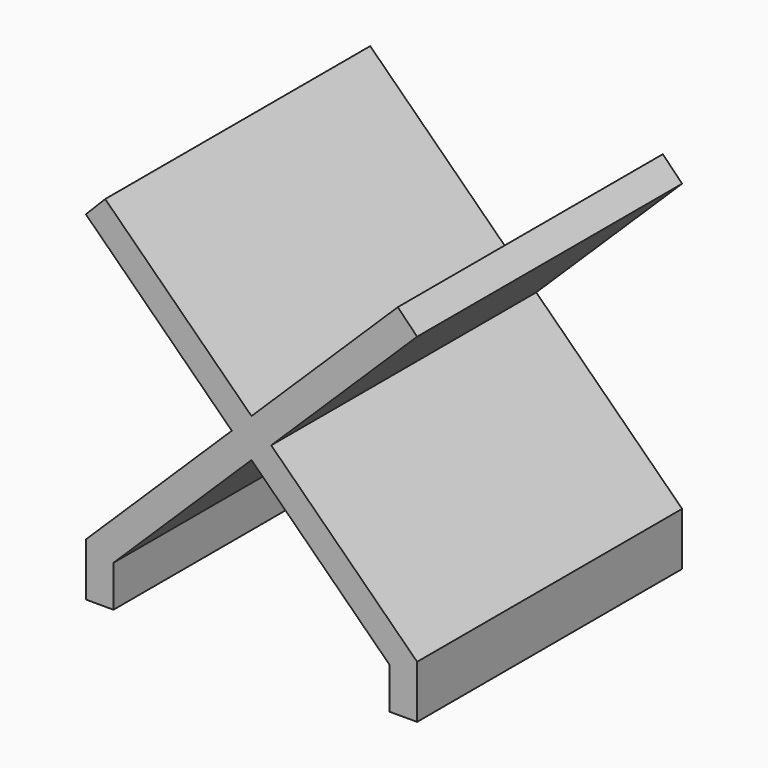
from build123d import *

# Parameters (mm, degrees)
F1_DEPTH      = 25.4
F1_DEPTH_BACK = 50.8


with BuildPart() as f1:
    # F0 (on Front) → F1 (new body, two sides)
    with BuildSketch(Plane.XZ) as f1_sk:
        Polygon((-38.1, -21.878573), (-38.1, -34.056139), (-31.75, -34.056139), (-31.75, -24.545052), (0, 6.593748), (31.75, -24.545052), (31.75, -34.056139), (38.1, -34.056139), (38.1, -21.878573), (4.534409, 11.040868), (38.1, 43.960308), (33.65372, 48.493861), (0, 15.487987), (-33.65372, 48.493861), (-38.1, 43.960308), (-4.534409, 11.040868), align=None)
    extrude(amount=F1_DEPTH)
    extrude(f1_sk.sketch, amount=-F1_DEPTH_BACK)


solid = f1.part
